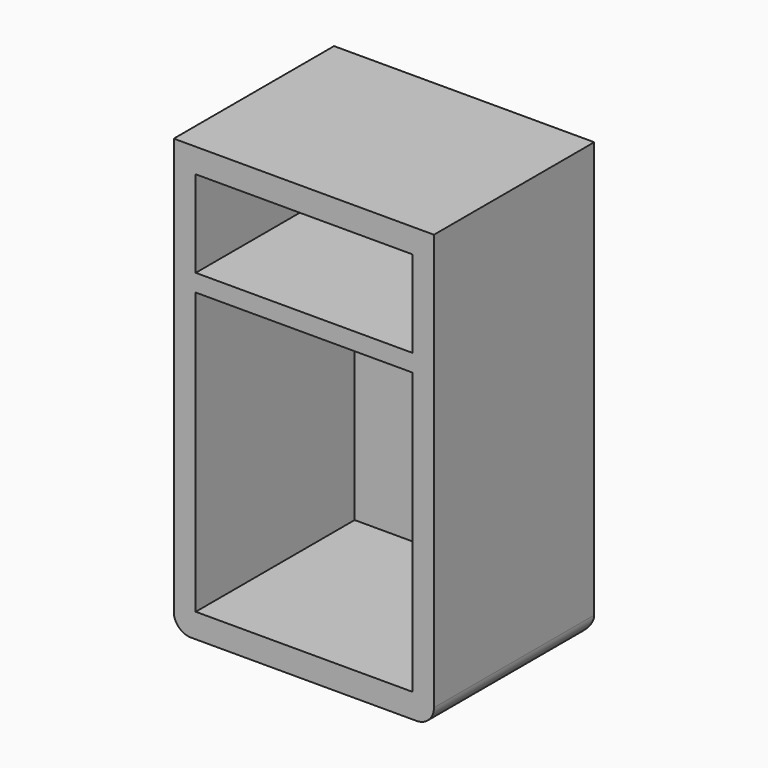
from build123d import *

# Parameters (mm, degrees)
F0_W     = 76.2
F0_H     = 127
F1_DEPTH = 58.674
F2_W     = 63.5
F2_H     = 25.4
F2_H_2   = 82.300099
F3_DEPTH = 58.166
F4_R     = 5.08


with BuildPart() as f1:
    # F0 (on Front) → F1 (new body)
    with BuildSketch(Plane.XZ):
        Rectangle(F0_W, F0_H)
    extrude(amount=F1_DEPTH)

    # F2 (on face) → F3 (cut)
    with BuildSketch(Plane.XZ.offset(58.674)):
        with Locations((0.089581, 43.692099)):
            Rectangle(F2_W, F2_H)
        with Locations((0.089581, -15.237951)):
            Rectangle(F2_W, F2_H_2)
    extrude(amount=-F3_DEPTH, mode=Mode.SUBTRACT)

    # F4
    f4_edges = [f1.edges().sort_by_distance(p)[0] for p in [
        (38.1, -29.337, -63.5),
        (-38.1, -29.337, -63.5),
        (0, 0, -63.5),
    ]]
    fillet(f4_edges, radius=F4_R)


solid = f1.part
